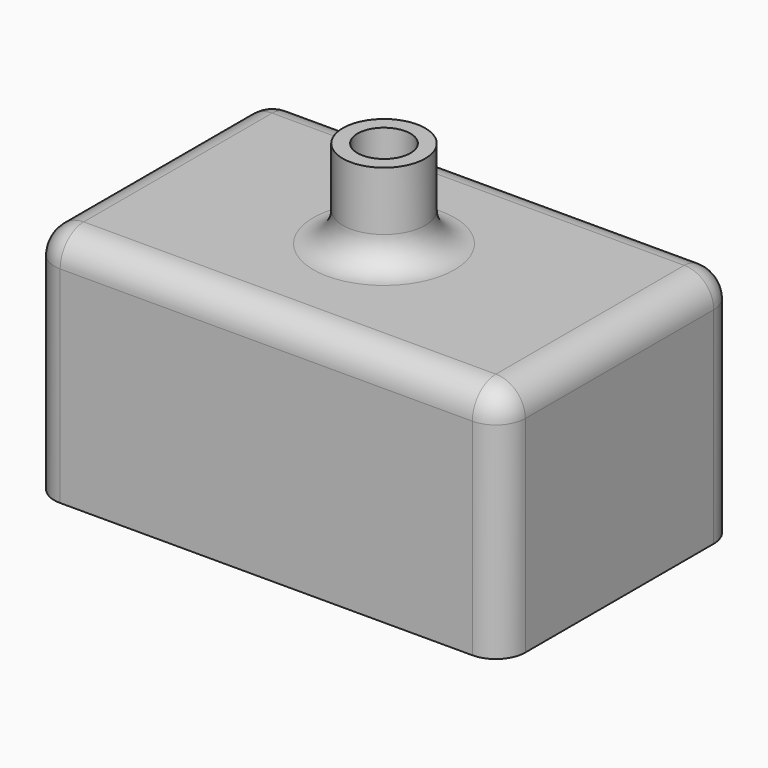
from build123d import *

# Parameters (mm, degrees)
F0_W     = 80
F0_H     = 50
F1_DEPTH = 40
F2_R     = 7
F3_DEPTH = 15
F4_T     = -2.5
F5_R     = 5


with BuildPart() as f1:
    # F0 (on Top) → F1 (new body)
    with BuildSketch(Plane.XY):
        Rectangle(F0_W, F0_H)
    extrude(amount=F1_DEPTH)

    # F2 (on face) → F3 (join)
    with BuildSketch(Plane.XY.offset(40)):
        Circle(F2_R)
    extrude(amount=F3_DEPTH)

    # F4
    f4_openings = [f1.faces().sort_by_distance(p)[0] for p in [
        (0, 0, 55),
    ]]
    offset(amount=F4_T, openings=f4_openings, kind=Kind.INTERSECTION)

    # F5
    f5_edges = [f1.edges().sort_by_distance(p)[0] for p in [
        (-7, 0, 40),
        (0, -25, 40),
        (40, 0, 40),
        (-40, 0, 40),
        (0, 25, 40),
        (-40, -25, 20),
        (40, -25, 20),
        (-40, 25, 20),
        (40, 25, 20),
    ]]
    fillet(f5_edges, radius=F5_R)


solid = f1.part
